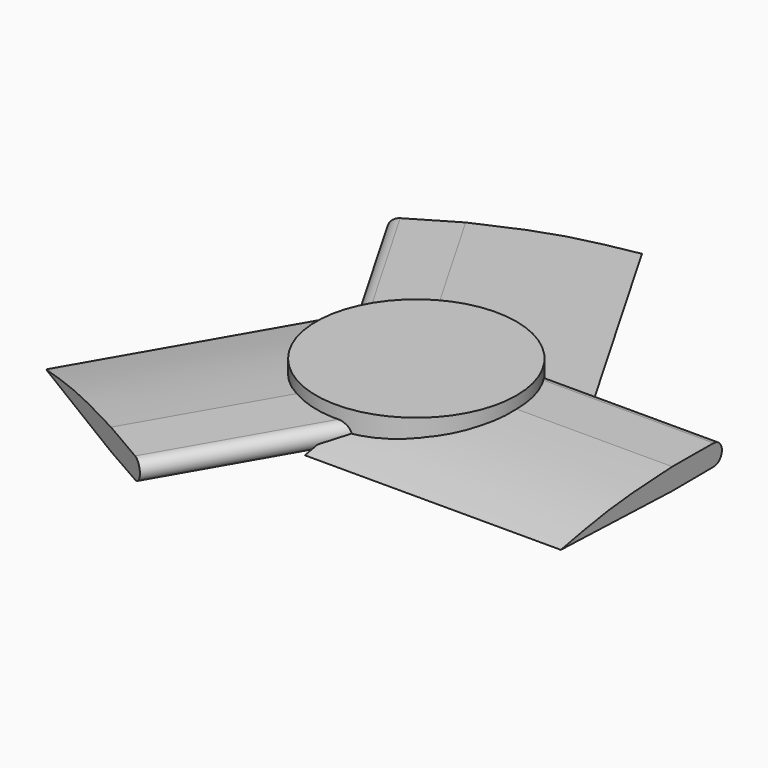
from build123d import *

# Parameters (mm, degrees)
F1_DEPTH = 139.954
F3_COUNT = 3
F4_R     = 54.7736175768
F5_DEPTH = 12.7


with BuildPart() as f1:
    # F0 (on Right) → F1 (new body)
    with BuildSketch(Plane.YZ):
        with BuildLine():
            Line((0, -5.5588744463), (28.2660815865, -5.4060807452))
            ThreePointArc((28.2660815865, -5.4060807452), (33.9502723446, 0.3089192323), (28.2660815865, 6.0239192098))
            Line((28.2660815865, 6.0239192098), (0, 6.176712911))
            add(Edge.make_bspline(
                [(0, 6.176712911), (-13.6546459809, 5.5053200106), (-40.2605333408, 4.1971203028), (-64.3985710209, -0.5997191891), (-76.1485099792, -2.9347296804)],
                knots=[0, 0, 0, 0, 0.5132189653, 1, 1, 1, 1], degree=3))
            Line((-76.1485099792, -2.9347296804), (0, -5.5588744463))
        make_face()
    extrude(amount=F1_DEPTH)


with BuildPart() as f3_1:
    # F3: instance of F1
    add(f1.part.rotate(Axis((0, 0, 0), (0, 0, 1)), 1 * 360 / F3_COUNT))


with BuildPart() as f3_2:
    # F3: instance of F1
    add(f1.part.rotate(Axis((0, 0, 0), (0, 0, 1)), 2 * 360 / F3_COUNT))


with BuildPart() as f5:
    # F4 (on Top) → F5 (new body, symmetric)
    with BuildSketch(Plane.XY):
        Circle(F4_R)
    extrude(amount=F5_DEPTH, both=True)


solid = Compound([f1.part, f3_1.part, f3_2.part, f5.part])
